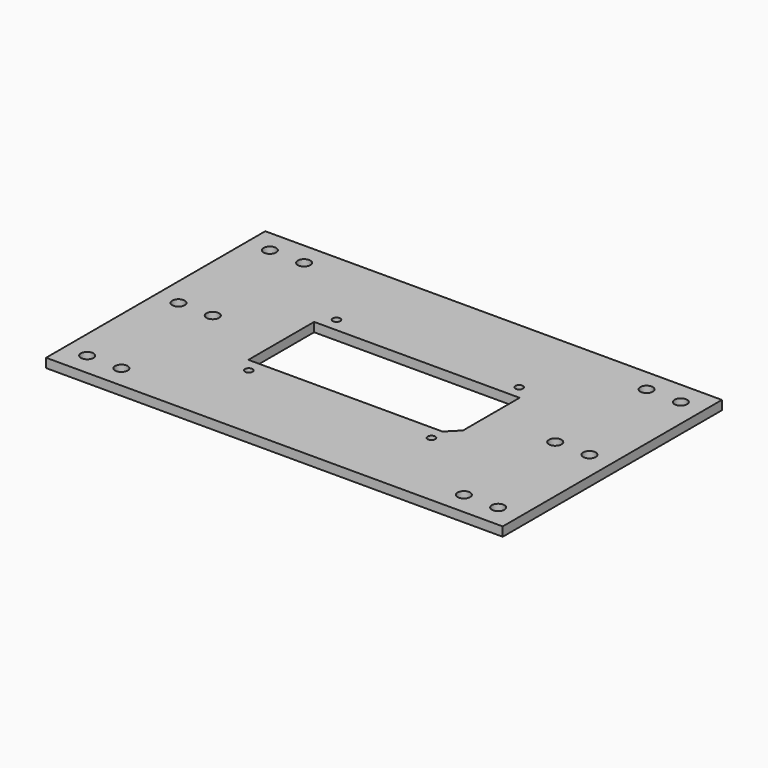
from build123d import *

# Parameters (mm, degrees)
F1_W     = 200
F1_H     = 120
F2_DEPTH = 4
F3_W     = 90
F3_H     = 36
F4_DEPTH = 4
F5_SIZE  = 5
F7_D     = 3.3
F9_D     = 5.5


with BuildPart() as f2:
    # F1 (on Top) → F2 (new body)
    with BuildSketch(Plane.XY):
        with Locations((100, 60)):
            Rectangle(F1_W, F1_H)
    extrude(amount=F2_DEPTH)

    # F3 (on Top) → F4 (cut, through all)
    with BuildSketch(Plane.XY):
        with Locations((100, 60)):
            Rectangle(F3_W, F3_H)
    extrude(amount=F4_DEPTH, mode=Mode.SUBTRACT)

    # F5
    f5_edges = [f2.edges().sort_by_distance(p)[0] for p in [
        (145, 42, 2),
    ]]
    chamfer(f5_edges, length=F5_SIZE)

    # F7 (through all)
    with Locations(Plane(origin=(0, 0, 0), x_dir=(1, 0, 0), z_dir=(0, 0, -1))):
        with Locations((140, -84), (140, -36), (60, -36), (60, -84)):
            Hole(F7_D / 2)

    # F9 (through all)
    with Locations(Plane(origin=(0, 0, 0), x_dir=(1, 0, 0), z_dir=(0, 0, -1))):
        with Locations((25, -110), (25, -60), (25, -10), (175, -110), (175, -60), (175, -10), (10, -110), (10, -60), (10, -10), (190, -110), (190, -60), (190, -10)):
            Hole(F9_D / 2)


solid = f2.part
